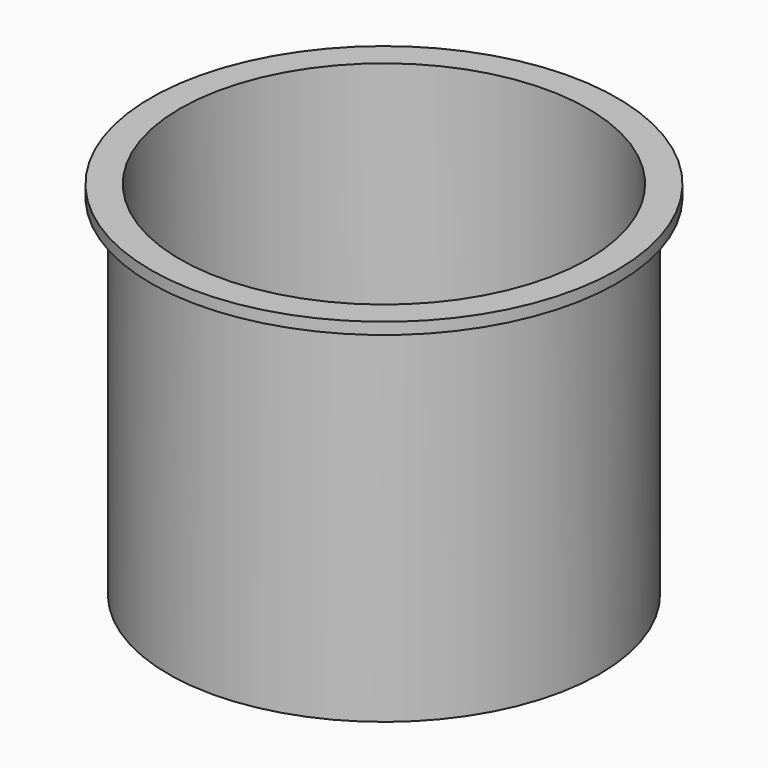
from build123d import *

# Parameters (mm, degrees)
F0_R     = 46.99
F2_R     = 46.99
F4_T     = -2.54
F6_R     = 50.8
F6_R_2   = 44.45
F7_DEPTH = 2.54


with BuildPart() as f3:
    # F0 (on Top) → F3 section 0
    with BuildSketch(Plane.XY):
        Circle(F0_R)
    # F2 (on offset) → F3 section 1
    with BuildSketch(Plane.XY.offset(76.2)):
        Circle(F2_R)
    loft()

    # F4
    f4_openings = [f3.faces().sort_by_distance(p)[0] for p in [
        (0, 0, 76.2),
    ]]
    offset(amount=F4_T, openings=f4_openings)

    # F6 (on offset) → F7 (join)
    with BuildSketch(Plane.XY.offset(78.74)):
        Circle(F6_R)
        Circle(F6_R_2, mode=Mode.SUBTRACT)
    extrude(amount=-F7_DEPTH)


solid = f3.part
